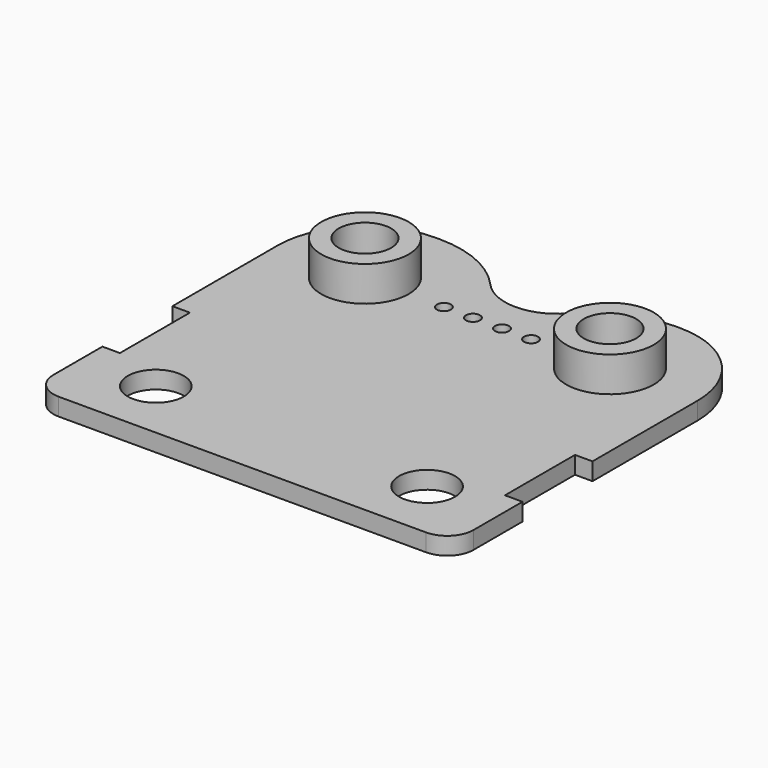
from build123d import *

# Parameters (mm, degrees)
F0_W      = 24
F0_H      = 5
F0_R      = 1.5
F0_R_2    = 0.4
F1_DEPTH  = 1
F2_W      = 24
F2_H      = 1
F3_DEPTH  = 15
F4_R      = 1.6
F5_DEPTH  = 25
F6_R      = 1.5
F7_W      = 1
F7_H      = 5
F8_DEPTH  = 1
F9_W      = 24
F9_H      = 1
F10_DEPTH = 2.5
F11_R     = 5
F12_R     = 2.5
F12_R_2   = 1.5
F13_DEPTH = 1.5
F14_R     = 2.5
F14_R_2   = 1.5
F15_DEPTH = 2
F16_R     = 3
F17_DEPTH = 25
F18_R     = 6


with BuildPart() as f1:
    # F0 (on Top) → F1 (new body)
    with BuildSketch(Plane.XY):
        Rectangle(F0_W, F0_H)
        with Locations((-7, 0)):
            Circle(F0_R, mode=Mode.SUBTRACT)
        with Locations((-2.49, 0)):
            Circle(F0_R_2, mode=Mode.SUBTRACT)
        with Locations((-0.83, 0)):
            Circle(F0_R_2, mode=Mode.SUBTRACT)
        with Locations((0.83, 0)):
            Circle(F0_R_2, mode=Mode.SUBTRACT)
        with Locations((2.49, 0)):
            Circle(F0_R_2, mode=Mode.SUBTRACT)
        with Locations((7, 0)):
            Circle(F0_R, mode=Mode.SUBTRACT)
    extrude(amount=F1_DEPTH)

    # F2 (on face) → F3 (join)
    with BuildSketch(Plane.XZ.offset(2.5)):
        with Locations((0, 0.5)):
            Rectangle(F2_W, F2_H)
    extrude(amount=F3_DEPTH)

    # F4 (on face) → F5 (cut)
    with BuildSketch(Plane(origin=(0, 0, 0), x_dir=(1, 0, 0), z_dir=(0, 0, -1))):
        with Locations((-7.75, 14)):
            Circle(F4_R)
        with Locations((7.75, 14)):
            Circle(F4_R)
    extrude(amount=-F5_DEPTH, mode=Mode.SUBTRACT)

    # F6
    f6_edges = [f1.edges().sort_by_distance(p)[0] for p in [
        (12, -17.5, 0.5),
        (-12, -17.5, 0.5),
    ]]
    fillet(f6_edges, radius=F6_R)

    # F7 (on face) → F8 (cut, through all)
    with BuildSketch(Plane(origin=(0, 0, 0), x_dir=(1, 0, 0), z_dir=(0, 0, -1))):
        with Locations((11.5, 10)):
            Rectangle(F7_W, F7_H)
        with Locations((-11.5, 10)):
            Rectangle(F7_W, F7_H)
    extrude(amount=-F8_DEPTH, mode=Mode.SUBTRACT)

    # F9 (on face) → F10 (join)
    with BuildSketch(Plane(origin=(0, 2.5, 0), x_dir=(-1, 0, 0), z_dir=(0, 1, 0))):
        with Locations((0, 0.5)):
            Rectangle(F9_W, F9_H)
    extrude(amount=F10_DEPTH)

    # F11
    f11_edges = [f1.edges().sort_by_distance(p)[0] for p in [
        (-12, 5, 0.5),
        (12, 5, 0.5),
    ]]
    fillet(f11_edges, radius=F11_R)

    # F12 (on face) → F13 (join)
    with BuildSketch(Plane(origin=(0, 0, 0), x_dir=(1, 0, 0), z_dir=(0, 0, -1))):
        with Locations((7, 0)):
            Circle(F12_R)
        with Locations((7, 0)):
            Circle(F12_R_2, mode=Mode.SUBTRACT)
        with Locations((-7, 0)):
            Circle(F12_R)
        with Locations((-7, 0)):
            Circle(F12_R_2, mode=Mode.SUBTRACT)
    extrude(amount=F13_DEPTH)

    # F14 (on face) → F15 (join)
    with BuildSketch(Plane.XY.offset(1)):
        with Locations((7, 0)):
            Circle(F14_R)
        with Locations((7, 0)):
            Circle(F14_R_2, mode=Mode.SUBTRACT)
        with Locations((-7, 0)):
            Circle(F14_R)
        with Locations((-7, 0)):
            Circle(F14_R_2, mode=Mode.SUBTRACT)
    extrude(amount=F15_DEPTH)

    # F16 (on face) → F17 (cut)
    with BuildSketch(Plane(origin=(0, 0, 0), x_dir=(1, 0, 0), z_dir=(0, 0, -1))):
        with Locations((0, -5)):
            Circle(F16_R)
    extrude(amount=-F17_DEPTH, mode=Mode.SUBTRACT)

    # F18
    f18_edges = [f1.edges().sort_by_distance(p)[0] for p in [
        (-3, 5, 0.5),
        (3, 5, 0.5),
    ]]
    fillet(f18_edges, radius=F18_R)


solid = f1.part
